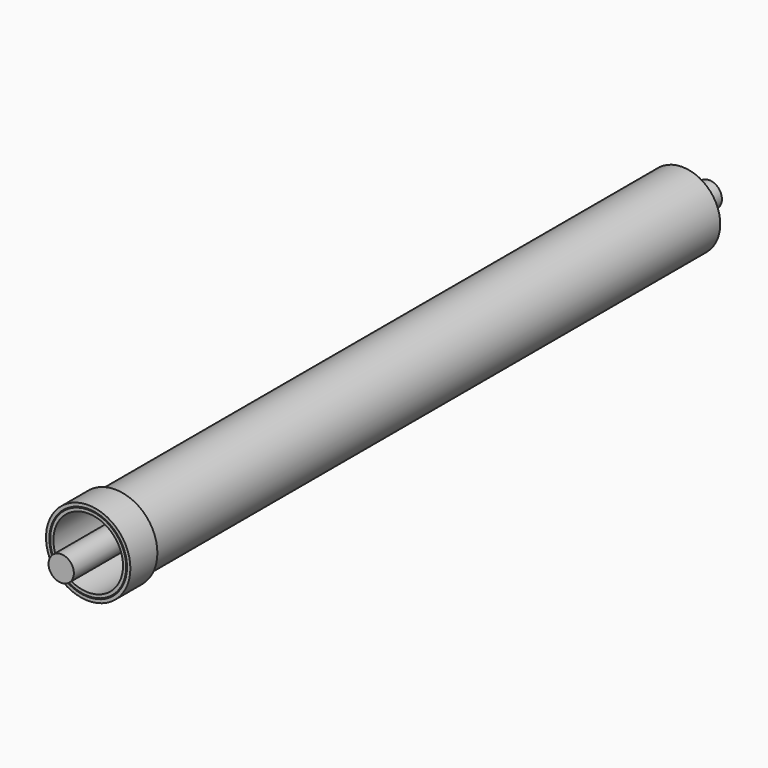
from build123d import *

# Parameters (mm, degrees)
F0_R     = 9.525
F1_DEPTH = 304.8
F2_R     = 25.4
F2_R_2   = 9.906
F3_DEPTH = 12.7
F4_R     = 28.575
F4_R_2   = 26.19375
F5_DEPTH = 279.4
F6_R     = 31.75
F6_R_2   = 29.21
F7_DEPTH = 25.4


with BuildPart() as f1:
    # F0 (on Front) → F1 (new body, symmetric)
    with BuildSketch(Plane.XZ):
        Circle(F0_R)
    extrude(amount=F1_DEPTH, both=True)


with BuildPart() as f3:
    # F2 (on Front) → F3 (new body, symmetric)
    with BuildSketch(Plane.XZ):
        Circle(F2_R)
        Circle(F2_R_2, mode=Mode.SUBTRACT)
    extrude(amount=F3_DEPTH, both=True)


with BuildPart() as f5:
    # F4 (on Front) → F5 (new body, symmetric)
    with BuildSketch(Plane.XZ):
        Circle(F4_R)
        Circle(F4_R_2, mode=Mode.SUBTRACT)
    extrude(amount=F5_DEPTH, both=True)


with BuildPart() as f7:
    # F6 (on face) → F7 (new body)
    with BuildSketch(Plane.XZ.offset(279.4)):
        Circle(F6_R)
        Circle(F6_R_2, mode=Mode.SUBTRACT)
    extrude(amount=-F7_DEPTH)


solid = Compound([f1.part, f3.part, f5.part, f7.part])
